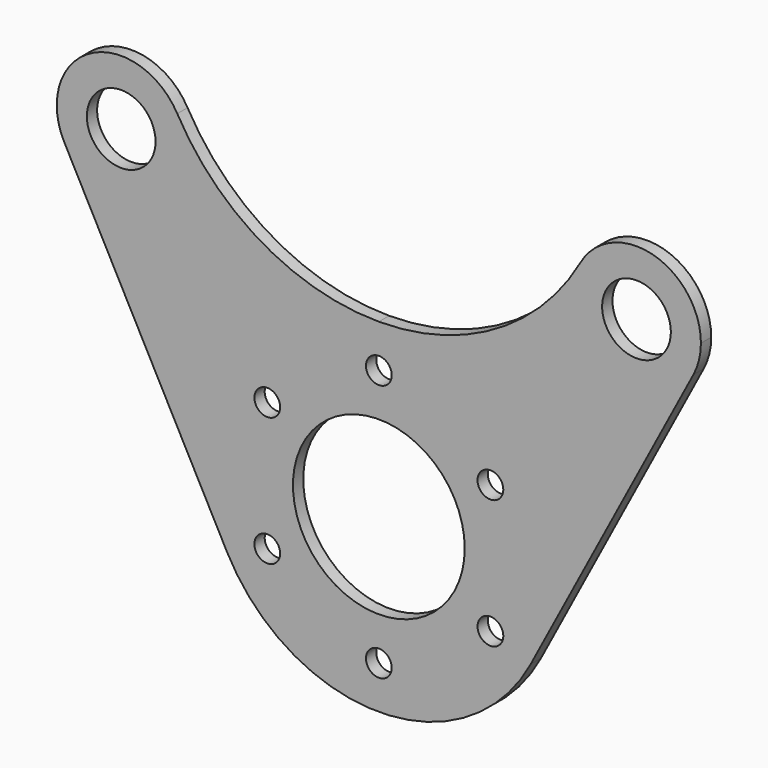
from build123d import *

# Parameters (mm, degrees)
F0_R     = 8
F0_R_2   = 3
F0_R_3   = 20
F1_DEPTH = 3


with BuildPart() as f1:
    # F0 (on Front) → F1 (new body)
    with BuildSketch(Plane.XZ):
        with BuildLine():
            ThreePointArc((-45, 60), (-45.493882, 63.817399), (-46.943005, 67.38342))
            ThreePointArc((-46.943005, 67.38342), (-67.19783, 73.160215), (-73.260797, 52.989203))
            ThreePointArc((-73.260797, 52.989203), (-56.388349, 45.441292), (-45, 60))
        make_face()
        with Locations((-60, 60)):
            Circle(F0_R, mode=Mode.SUBTRACT)
        with BuildLine():
            ThreePointArc((75, 60), (63.817399, 74.506118), (46.943005, 67.38342))
            ThreePointArc((46.943005, 67.38342), (52.80217, 46.839785), (73.260797, 52.989203))
            ThreePointArc((73.260797, 52.989203), (74.558708, 56.388349), (75, 60))
        make_face()
        with Locations((60, 60)):
            Circle(F0_R, mode=Mode.SUBTRACT)
        with BuildLine():
            ThreePointArc((35.362125, -18.695458), (38.823221, -9.63107), (40, 0))
            ThreePointArc((40, 0), (28.284271, 28.284271), (0, 40))
            ThreePointArc((0, 40), (-34.262358, 20.641968), (-35.362125, -18.695458))
            ThreePointArc((-35.362125, -18.695458), (0, -40), (35.362125, -18.695458))
        make_face()
        with Locations((-25.980762, -15)):
            Circle(F0_R_2, mode=Mode.SUBTRACT)
        with Locations((-25.980762, 15)):
            Circle(F0_R_2, mode=Mode.SUBTRACT)
        with Locations((0, -30)):
            Circle(F0_R_2, mode=Mode.SUBTRACT)
        with Locations((25.980762, -15)):
            Circle(F0_R_2, mode=Mode.SUBTRACT)
        Circle(F0_R_3, mode=Mode.SUBTRACT)
        with Locations((25.980762, 15)):
            Circle(F0_R_2, mode=Mode.SUBTRACT)
        with Locations((0, 30)):
            Circle(F0_R_2, mode=Mode.SUBTRACT)
        with BuildLine():
            ThreePointArc((0, 40), (28.284271, 28.284271), (40, 0))
            ThreePointArc((40, 0), (38.823221, -9.63107), (35.362125, -18.695458))
            Line((35.362125, -18.695458), (73.260797, 52.989203))
            ThreePointArc((73.260797, 52.989203), (52.80217, 46.839785), (46.943005, 67.38342))
            ThreePointArc((46.943005, 67.38342), (27.173045, 47.346209), (0, 40))
        make_face()
        with BuildLine():
            ThreePointArc((-35.362125, -18.695458), (-34.262358, 20.641968), (0, 40))
            ThreePointArc((0, 40), (-27.173045, 47.346209), (-46.943005, 67.38342))
            ThreePointArc((-46.943005, 67.38342), (-45.493882, 63.817399), (-45, 60))
            ThreePointArc((-45, 60), (-56.388349, 45.441292), (-73.260797, 52.989203))
            Line((-73.260797, 52.989203), (-35.362125, -18.695458))
        make_face()
    extrude(amount=F1_DEPTH)


solid = f1.part
